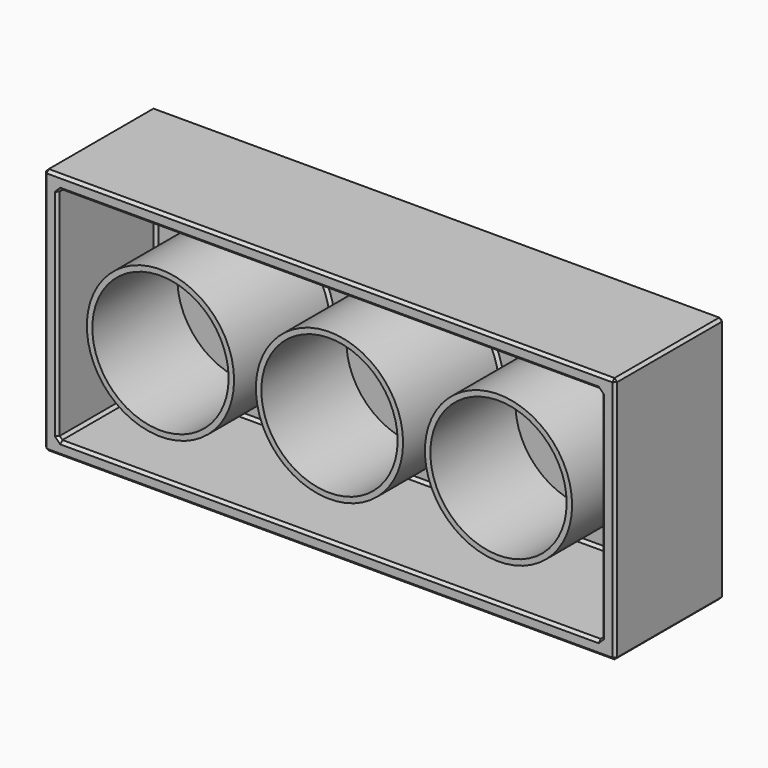
from build123d import *

# Parameters (mm, degrees)
SKETCH_W        = 199.522308
SKETCH_H        = 80.891732
PAD_DEPTH       = 45
THICKNESS_T     = 5
SKETCH001_R     = 27
PAD001_DEPTH    = 45
SKETCH002_R     = 25
POCKET_DEPTH    = 40
CHAMFER_SIZE    = 1
CHAMFER001_SIZE = 1
SKETCH003_R     = 16.619599
PAD002_DEPTH    = 10
CHAMFER002_SIZE = 1
CHAMFER003_SIZE = 1


with BuildPart() as part:
    # Sketch → Pad (new body)
    with BuildSketch(Plane.XZ):
        Rectangle(SKETCH_W, SKETCH_H)
    extrude(amount=PAD_DEPTH)

    # Thickness
    thickness_openings = [part.faces().sort_by_distance(p)[0] for p in [
        (0, -45, 0),
    ]]
    offset(amount=THICKNESS_T, openings=thickness_openings, kind=Kind.INTERSECTION)

    # Sketch001 (on Face5 of Thickness) → Pad001 (join)
    with BuildSketch(Plane.XZ):
        Circle(SKETCH001_R)
        with Locations((62, 0)):
            Circle(SKETCH001_R)
        with Locations((-62, 0)):
            Circle(SKETCH001_R)
    extrude(amount=PAD001_DEPTH)

    # Sketch002 → Pocket (cut)
    with BuildSketch(Plane.XZ.offset(46)):
        Circle(SKETCH002_R)
        with Locations((-62, 0)):
            Circle(SKETCH002_R)
        with Locations((62, 0)):
            Circle(SKETCH002_R)
    extrude(amount=-POCKET_DEPTH, mode=Mode.SUBTRACT)

    # Chamfer
    chamfer_edges = [part.edges().sort_by_distance(p)[0] for p in [
        (-99.761154, 0, 0),
        (0, 0, -40.445866),
        (0, 0, 40.445866),
        (99.761154, 0, 0),
        (-89, 0, 0),
        (-27, 0, 0),
        (35, 0, 0),
        (-99.761154, -22.5, 40.445866),
        (99.761154, -22.5, 40.445866),
        (0, -45, 40.445866),
        (-99.761154, -22.5, -40.445866),
        (-99.761154, -45, 0),
        (99.761154, -22.5, -40.445866),
        (99.761154, -45, 0),
        (0, -45, -40.445866),
    ]]
    chamfer(chamfer_edges, length=CHAMFER_SIZE)

    # Chamfer001
    chamfer001_edges = [part.edges().sort_by_distance(p)[0] for p in [
        (104.761154, -20, 45.445866),
        (0, 5, 45.445866),
        (-104.761154, -20, 45.445866),
        (0, -45, 45.445866),
        (104.761154, -20, -45.445866),
        (104.761154, 5, 0),
        (104.761154, -45, 0),
        (-104.761154, 5, 0),
        (0, 5, -45.445866),
        (-104.761154, -20, -45.445866),
        (-104.761154, -45, 0),
        (0, -45, -45.445866),
    ]]
    chamfer(chamfer001_edges, length=CHAMFER001_SIZE)

    # Sketch003 (on Face48 of Chamfer001) → Pad002 (join)
    with BuildSketch(Plane(origin=(0, 5, 0), x_dir=(-1, 0, 0), z_dir=(0, 1, 0))):
        with Locations((-78.721924, 20.108581)):
            Circle(SKETCH003_R)
        with Locations((-25.795449, 20.108581)):
            Circle(SKETCH003_R)
        with Locations((27.131026, 20.108581)):
            Circle(SKETCH003_R)
        with Locations((80.0575, 20.108581)):
            Circle(SKETCH003_R)
        with Locations((-78.721924, -19.88926)):
            Circle(SKETCH003_R)
        with Locations((-25.795449, -19.88926)):
            Circle(SKETCH003_R)
        with Locations((27.131026, -19.88926)):
            Circle(SKETCH003_R)
        with Locations((80.0575, -19.88926)):
            Circle(SKETCH003_R)
    extrude(amount=PAD002_DEPTH)

    # Chamfer002
    chamfer002_edges = [part.edges().sort_by_distance(p)[0] for p in [
        (-63.437902, 15, 20.108581),
        (-63.437902, 15, -19.88926),
        (-10.511427, 15, -19.88926),
        (-10.511427, 15, 20.108581),
        (42.415048, 15, 20.108581),
        (42.415048, 15, -19.88926),
        (95.341523, 15, -19.88926),
        (95.341523, 15, 20.108581),
    ]]
    chamfer(chamfer002_edges, length=CHAMFER002_SIZE)

    # Chamfer003
    chamfer003_edges = [part.edges().sort_by_distance(p)[0] for p in [
        (-10.511427, 5, 20.108581),
        (-10.511427, 5, -19.88926),
        (42.415048, 5, -19.88926),
        (42.415048, 5, 20.108581),
        (95.341523, 5, -19.88926),
        (95.341523, 5, 20.108581),
        (-63.437902, 5, -19.88926),
        (-63.437902, 5, 20.108581),
    ]]
    chamfer(chamfer003_edges, length=CHAMFER003_SIZE)


solid = part.part
